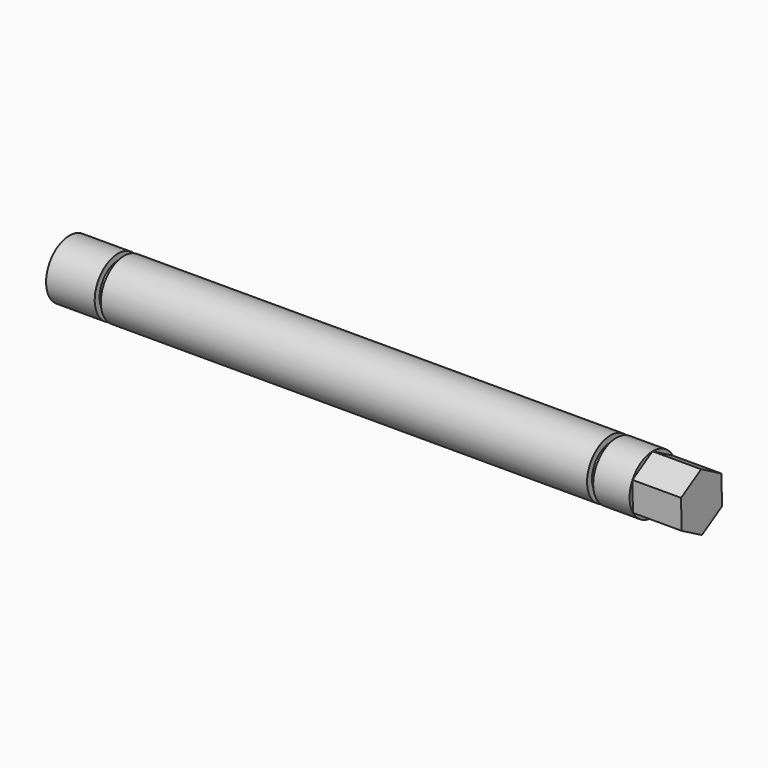
from build123d import *

# Parameters (mm, degrees)
F3_DEPTH = 12.7


with BuildPart() as f1:
    # F0 (on Front) → F1 (revolve)
    with BuildSketch(Plane.XZ):
        Polygon((0, 7.62), (0, 0), (165.1, 0), (165.1, 7.62), (142.9004, 7.62), (142.9004, 6.0198), (141.3002, 6.0198), (141.3002, 7.62), (14.3002, 7.62), (14.3002, 6.0198), (12.7, 6.0198), (12.7, 7.62), align=None)
    revolve(axis=Axis((82.55, 0, 0), (1, 0, 0)))

    # F2 (on face) → F3 (cut)
    with BuildSketch(Plane.YZ.offset(165.1)):
        with BuildLine():
            Line((-6.66095398, 3.7008231619), (-0.1254701169, 7.6189669411))
            ThreePointArc((-0.1254701169, 7.6189669411), (-3.9181437792, 6.5354838632), (-6.66095398, 3.7008231619))
        make_face()
        with BuildLine():
            ThreePointArc((0.1254701169, -7.6189669411), (3.9181437792, -6.5354838632), (6.66095398, -3.7008231619))
            Line((6.66095398, -3.7008231619), (0.1254701169, -7.6189669411))
        make_face()
        with BuildLine():
            ThreePointArc((-6.5354838632, -3.9181437792), (-3.7008231619, -6.66095398), (0.1254701169, -7.6189669411))
            Line((0.1254701169, -7.6189669411), (-6.5354838632, -3.9181437792))
        make_face()
        with BuildLine():
            Line((-6.5354838632, -3.9181437792), (-6.66095398, 3.7008231619))
            ThreePointArc((-6.66095398, 3.7008231619), (-7.6189669411, -0.1254701169), (-6.5354838632, -3.9181437792))
        make_face()
        with BuildLine():
            Line((-0.1254701169, 7.6189669411), (6.5354838632, 3.9181437792))
            ThreePointArc((6.5354838632, 3.9181437792), (3.7008231619, 6.66095398), (-0.1254701169, 7.6189669411))
        make_face()
        with BuildLine():
            ThreePointArc((7.62, 0), (7.3438677493, 2.0327337458), (6.5354838632, 3.9181437792))
            Line((6.5354838632, 3.9181437792), (6.66095398, -3.7008231619))
            ThreePointArc((6.66095398, -3.7008231619), (7.3763429058, -1.9115348116), (7.62, 0))
        make_face()
    extrude(amount=-F3_DEPTH, mode=Mode.SUBTRACT)


solid = f1.part
